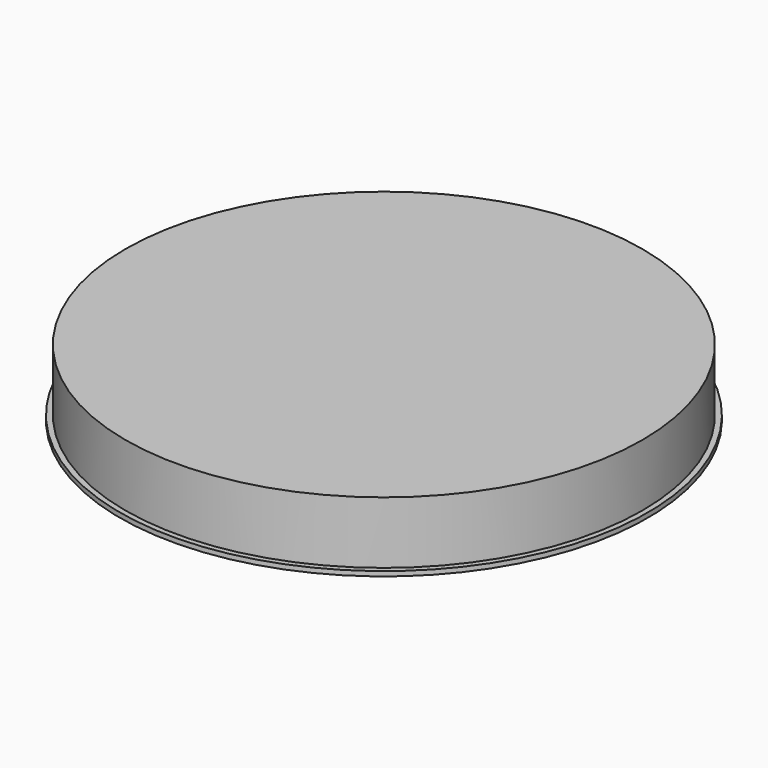
from build123d import *

# Parameters (mm, degrees)
F1_W = 11.9248691481
F1_H = 0.5048592575


with BuildPart() as f2:
    # F1 (on face) → F2 (revolve)
    with BuildSketch(Plane.XZ):
        Polygon((-2.3491799366, -0.2170112421), (9.8264990374, -0.2170112421), (9.8264990374, 2.3594901431), (-2.0983701106, 2.3594901431), (-2.0983701106, 0), (-2.3491799366, 0), align=None)
        with Locations((3.8640644634, 2.6119197719)):
            Rectangle(F1_W, F1_H)
    revolve(axis=Axis((9.8264990374, 0, 1.0712394505), (0, 0, -1)))


solid = f2.part
